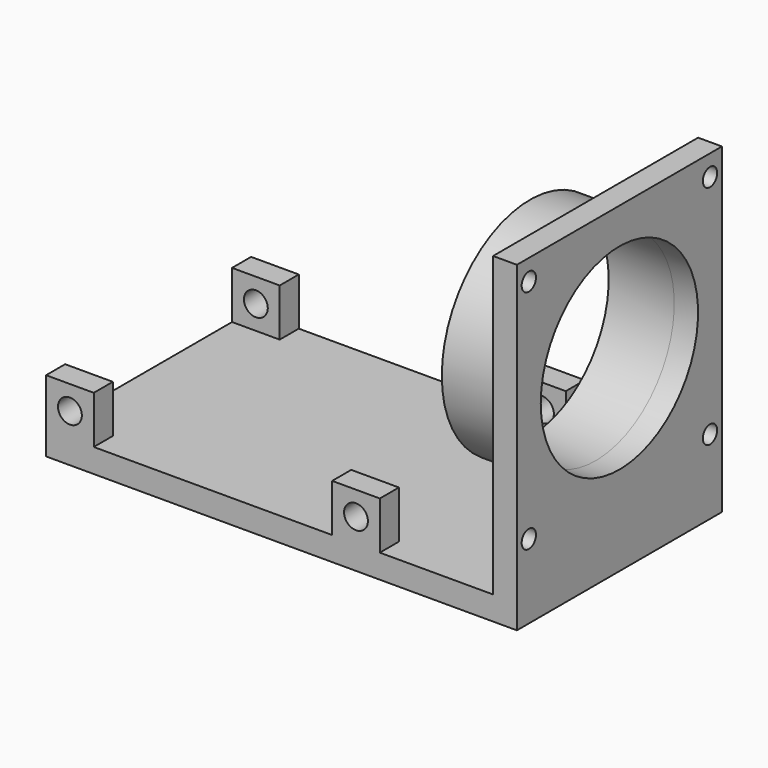
from build123d import *

# Parameters (mm, degrees)
F0_W      = 79
F0_H      = 43
F1_DEPTH  = 4
F2_W      = 4
F2_H      = 43
F3_DEPTH  = 50
F4_W      = 8
F4_H      = 4
F5_DEPTH  = 8
F6_W      = 8
F6_H      = 4
F7_DEPTH  = 8
F8_W      = 8
F8_H      = 4
F9_DEPTH  = 8
F10_W     = 8
F10_H     = 4
F11_DEPTH = 8
F13_D     = 4
F13_DEPTH = 4.001
F15_D     = 4
F15_DEPTH = 4.001
F17_D     = 4
F19_D     = 4
F21_D     = 33
F22_R     = 18.5
F22_R_2   = 16.5
F23_DEPTH = 11
F25_D     = 3
F27_D     = 3
F29_D     = 3
F29_DEPTH = 12
F29_TIP   = 0.9012909285
F31_D     = 3
F31_DEPTH = 12
F31_TIP   = 0.9012909285


with BuildPart() as f1:
    # F0 (on Top) → F1 (new body)
    with BuildSketch(Plane.XY):
        with Locations((8.5094775558, -3.8157299012)):
            Rectangle(F0_W, F0_H)
    extrude(amount=F1_DEPTH)

    # F2 (on face) → F3 (join)
    with BuildSketch(Plane.XY.offset(4)):
        with Locations((46.0094775558, -3.8157299012)):
            Rectangle(F2_W, F2_H)
    extrude(amount=F3_DEPTH)

    # F4 (on face) → F5 (join)
    with BuildSketch(Plane.XY.offset(4)):
        with Locations((-26.9905224442, -23.3157299012)):
            Rectangle(F4_W, F4_H)
    extrude(amount=F5_DEPTH)

    # F6 (on face) → F7 (join)
    with BuildSketch(Plane.XY.offset(4)):
        with Locations((-26.9905224442, 15.6842700988)):
            Rectangle(F6_W, F6_H)
    extrude(amount=F7_DEPTH)

    # F8 (on face) → F9 (join)
    with BuildSketch(Plane.XY.offset(4)):
        with Locations((21.0094775558, 15.6842700988)):
            Rectangle(F8_W, F8_H)
    extrude(amount=F9_DEPTH)

    # F10 (on face) → F11 (join)
    with BuildSketch(Plane.XY.offset(4)):
        with Locations((21.0094775558, -23.3157299012)):
            Rectangle(F10_W, F10_H)
    extrude(amount=F11_DEPTH)

    # F13 (through all, one way)
    with BuildSketch(Plane.XZ.offset(-13.6842700988)):
        with Locations((-26.9905224442, 8)):
            Circle(F13_D / 2)
    extrude(amount=-F13_DEPTH, mode=Mode.SUBTRACT)

    # F15 (through all, one way)
    with BuildSketch(Plane.XZ.offset(-13.6842700988)):
        with Locations((21.0094775558, 8)):
            Circle(F15_D / 2)
    extrude(amount=-F15_DEPTH, mode=Mode.SUBTRACT)

    # F17 (through all)
    with Locations(Plane(origin=(0, -21.3157299012, 0), x_dir=(-1, 0, 0), z_dir=(0, 1, 0))):
        with Locations((26.9905224442, 8)):
            Hole(F17_D / 2)

    # F19 (through all)
    with Locations(Plane(origin=(0, -21.3157299012, 0), x_dir=(-1, 0, 0), z_dir=(0, 1, 0))):
        with Locations((-21.0094775558, 8)):
            Hole(F19_D / 2)

    # F21 (through all)
    with Locations(Plane.YZ.offset(48.0094775558)):
        with Locations((-3.8157299012, 31.5)):
            Hole(F21_D / 2)

    # F22 (on face) → F23 (join)
    with BuildSketch(Plane(origin=(44.0094775558, 0, 0), x_dir=(0, -1, 0), z_dir=(-1, 0, 0))):
        with Locations((3.8157299012, 31.5)):
            Circle(F22_R)
        with Locations((3.8157299012, 31.5)):
            Circle(F22_R_2, mode=Mode.SUBTRACT)
    extrude(amount=F23_DEPTH)

    # F25 (through all)
    with Locations(Plane.YZ.offset(48.0094775558)):
        with Locations((-22.8157299012, 50.5)):
            Hole(F25_D / 2)

    # F27 (through all)
    with Locations(Plane.YZ.offset(48.0094775558)):
        with Locations((15.1842700988, 50.5)):
            Hole(F27_D / 2)

    # F29
    with Locations(Plane.YZ.offset(48.0094775558)):
        with Locations((-22.8157299012, 12.5)):
            Hole(F29_D / 2, depth=F29_DEPTH)
            with Locations((0, 0, -(F29_DEPTH + F29_TIP / 2))):  # 118° drill point
                Cone(0, F29_D / 2, F29_TIP, mode=Mode.SUBTRACT)

    # F31
    with Locations(Plane.YZ.offset(48.0094775558)):
        with Locations((15.1842700988, 12.5)):
            Hole(F31_D / 2, depth=F31_DEPTH)
            with Locations((0, 0, -(F31_DEPTH + F31_TIP / 2))):  # 118° drill point
                Cone(0, F31_D / 2, F31_TIP, mode=Mode.SUBTRACT)


solid = f1.part
